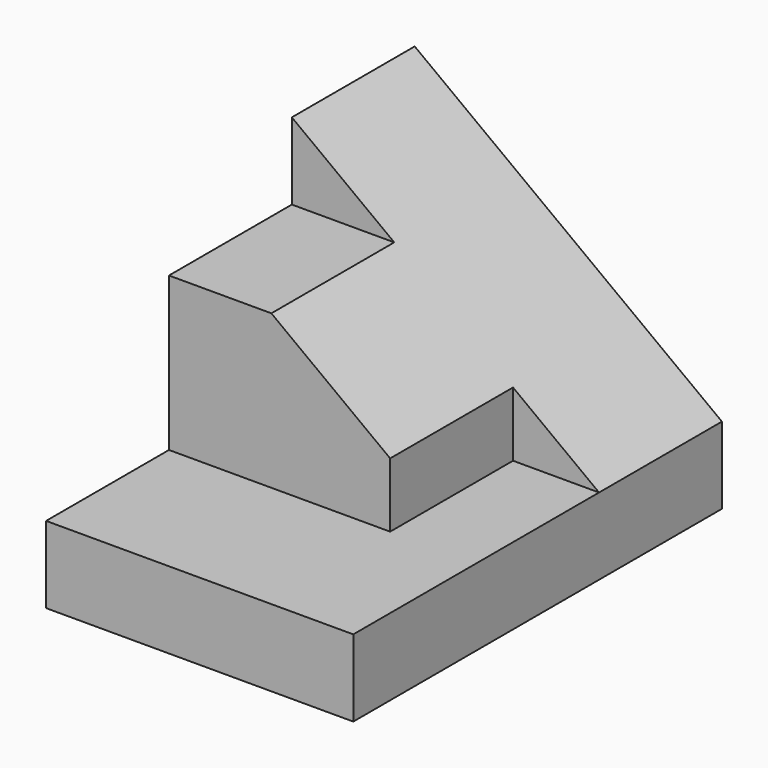
from build123d import *

# Parameters (mm, degrees)
F0_W     = 25.4
F0_H     = 6.35
F1_DEPTH = 38.1
F4_DEPTH = 25.4
F6_DEPTH = 12.7


with BuildPart() as f1:
    # F0 (on Front) → F1 (new body)
    with BuildSketch(Plane.XZ):
        with Locations((12.7, 3.175)):
            Rectangle(F0_W, F0_H)
    extrude(amount=-F1_DEPTH)

    # F3 (on offset) → F4 (join)
    with BuildSketch(Plane.XZ.offset(-12.7)):
        Polygon((0, 25.4), (0, 6.35), (25.4, 6.35), align=None)
    extrude(amount=-F4_DEPTH)

    # F5 (on face) → F6 (cut)
    with BuildSketch(Plane.XZ.offset(-12.7)):
        Polygon((8.4666666667, 19.05), (0, 25.4), (0, 19.05), align=None)
        Polygon((18.288, 6.35), (25.4, 6.35), (18.288, 11.684), align=None)
    extrude(amount=-F6_DEPTH, mode=Mode.SUBTRACT)


solid = f1.part
